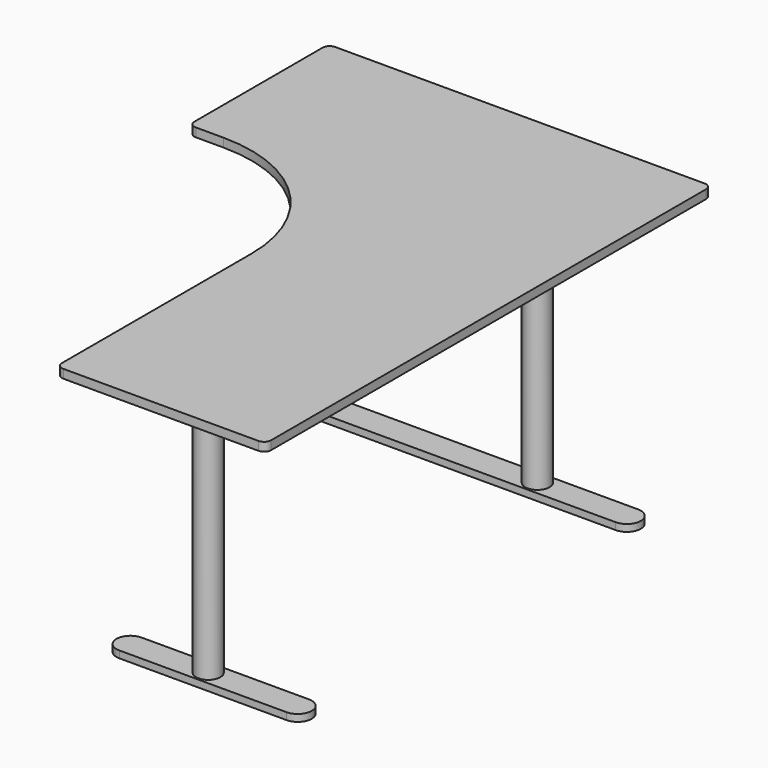
from build123d import *

# Parameters (mm, degrees)
F1_DEPTH = 2.5
F2_R     = 3.5
F3_DEPTH = 75
F5_DEPTH = 2


with BuildPart() as f1:
    # F0 (on Top) → F1 (new body)
    with BuildSketch(Plane.XY):
        with BuildLine():
            ThreePointArc((0, -2), (-0.585786, -0.585786), (-2, 0))
            Line((-2, 0), (-108, 0))
            ThreePointArc((-108, 0), (-109.414214, -0.585786), (-110, -2))
            Line((-110, -2), (-110, -158))
            ThreePointArc((-110, -158), (-109.414214, -159.414214), (-108, -160))
            Line((-108, -160), (-52, -160))
            ThreePointArc((-52, -160), (-50.585786, -159.414214), (-50, -158))
            Line((-50, -158), (-50, -90))
            ThreePointArc((-50, -90), (-38.284271, -61.715729), (-10, -50))
            Line((-10, -50), (-2, -50))
            ThreePointArc((-2, -50), (-0.585786, -49.414214), (0, -48))
            Line((0, -48), (0, -2))
        make_face()
    extrude(amount=F1_DEPTH)

    # F2 (on face) → F3 (join)
    with BuildSketch(Plane(origin=(0, 0, 0), x_dir=(1, 0, 0), z_dir=(0, 0, -1))):
        with Locations((-78.837842, 141.606882)):
            Circle(F2_R)
        with Locations((-78.837842, 23.552824)):
            Circle(F2_R)
    extrude(amount=F3_DEPTH)

    # F4 (on face) → F5 (join)
    with BuildSketch(Plane(origin=(0, 0, -75), x_dir=(1, 0, 0), z_dir=(0, 0, -1))):
        with BuildLine():
            ThreePointArc((-56.533181, 137.606882), (-52.533181, 141.606882), (-56.533181, 145.606882))
            Line((-56.533181, 145.606882), (-104.533181, 145.606882))
            ThreePointArc((-104.533181, 145.606882), (-108.533181, 141.606882), (-104.533181, 137.606882))
            Line((-104.533181, 137.606882), (-56.533181, 137.606882))
        make_face()
        with BuildLine():
            ThreePointArc((-82.337842, 141.606882), (-78.837842, 145.106882), (-75.337842, 141.606882))
            ThreePointArc((-75.337842, 141.606882), (-78.837842, 138.106882), (-82.337842, 141.606882))
        make_face(mode=Mode.SUBTRACT)
        with BuildLine():
            ThreePointArc((-104.533181, 27.552824), (-108.533181, 23.552824), (-104.533181, 19.552824))
            Line((-104.533181, 19.552824), (-15.066023, 19.552824))
            ThreePointArc((-15.066023, 19.552824), (-11.066023, 23.552824), (-15.066023, 27.552824))
            Line((-15.066023, 27.552824), (-104.533181, 27.552824))
        make_face()
        with BuildLine():
            ThreePointArc((-82.337842, 23.552824), (-78.837842, 27.052824), (-75.337842, 23.552824))
            ThreePointArc((-75.337842, 23.552824), (-78.837842, 20.052824), (-82.337842, 23.552824))
        make_face(mode=Mode.SUBTRACT)
        with BuildLine():
            ThreePointArc((-82.337842, 23.552824), (-78.837842, 20.052824), (-75.337842, 23.552824))
            Line((-75.337842, 23.552824), (-82.337842, 23.552824))
        make_face()
    extrude(amount=-F5_DEPTH)


with BuildPart() as f6_1:
    # F6: instance of F1
    add(f1.part.mirror(Plane.YZ))


solid = f6_1.part
